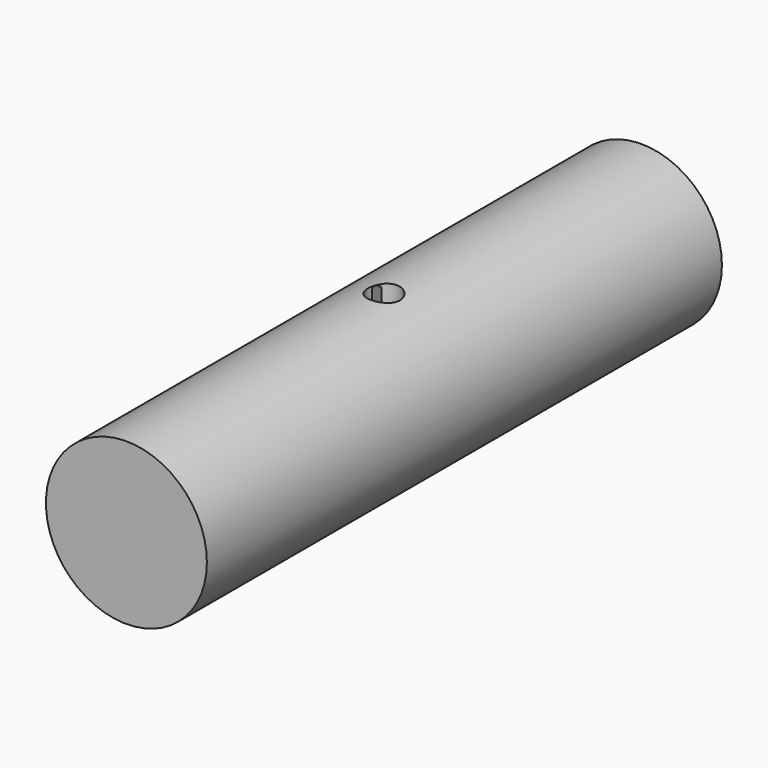
from build123d import *

# Parameters (mm, degrees)
F1_R     = 12.7
F2_DEPTH = 95.25
F0_R     = 63.5
F3_DEPTH = 3.175
F4_R     = 2.54
F6_ANGLE = 30
F7_R     = 63.5
F8_DEPTH = 254


with BuildPart() as f2:
    # F1 (on Top) → F2 (new body, symmetric)
    with BuildSketch(Plane.XY):
        Circle(F1_R)
    extrude(amount=F2_DEPTH, both=True)

    # F0 (on Front) → F3 (join, symmetric)
    with BuildSketch(Plane.XZ):
        Circle(F0_R)
    extrude(amount=F3_DEPTH, both=True)

    # F4
    f4_edges = [f2.edges().sort_by_distance(p)[0] for p in [
        (-63.5, -3.175, 0),
        (63.5, -3.175, 0),
        (-63.5, 3.175, 0),
        (63.5, 3.175, 0),
    ]]
    fillet(f4_edges, radius=F4_R)


with BuildPart() as f2_1:
    # F6: moved
    add(f2.part.rotate(Axis((0, 0, -0.5104467273), (0, 0, -1)), F6_ANGLE))


with BuildPart() as f8:
    # F7 (on Front) → F8 (new body, symmetric)
    with BuildSketch(Plane.XZ):
        Circle(F7_R)
    extrude(amount=F8_DEPTH, both=True)

    # F9: cut F2
    add(f2_1.part, mode=Mode.SUBTRACT)


solid = f8.part
